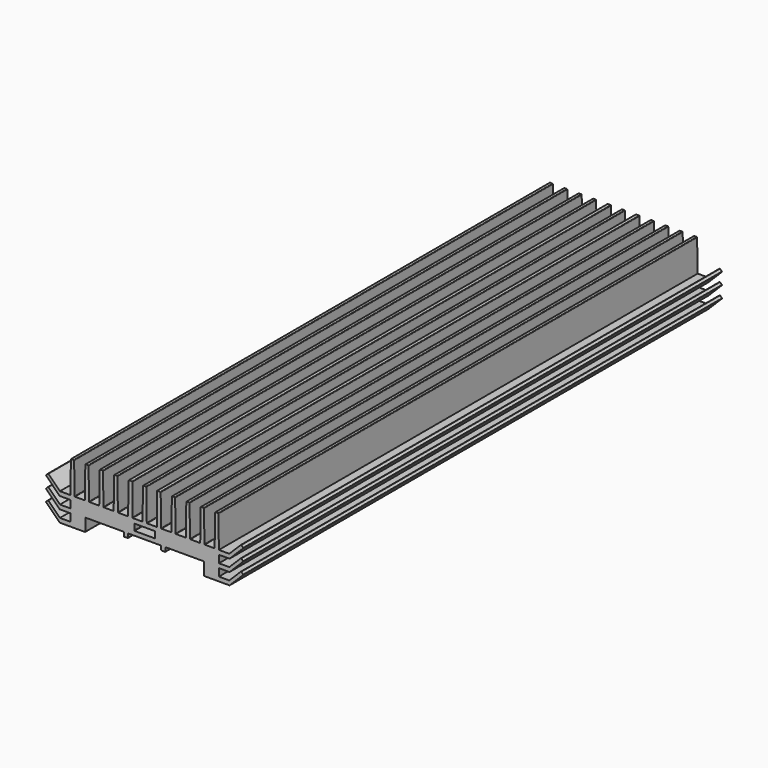
from build123d import *

# Parameters (mm, degrees)
F1_DEPTH = 280
F3_DEPTH = 280


with BuildPart() as f1:
    # F0 (on Front) → F1 (new body)
    with BuildSketch(Plane.XZ):
        with BuildLine():
            ThreePointArc((-9.95, -3.5), (-9.808579, -3.558579), (-9.75, -3.7))
            Line((-9.75, -3.7), (-9.75, -5.3))
            ThreePointArc((-9.75, -5.3), (-9.691421, -5.441421), (-9.55, -5.5))
            Line((-9.55, -5.5), (-7.95, -5.5))
            ThreePointArc((-7.95, -5.5), (-7.808579, -5.441421), (-7.75, -5.3))
            Line((-7.75, -5.3), (-7.75, -3.702103))
            ThreePointArc((-7.75, -3.702103), (-7.691421, -3.560682), (-7.55, -3.502103))
            Line((-7.55, -3.502103), (0, -3.502103))
            Line((0, -3.502103), (0, -1.502103))
            Line((0, -1.502103), (-4.654982, -1.502103))
            ThreePointArc((-4.654982, -1.502103), (-4.796403, -1.443525), (-4.854982, -1.302103))
            Line((-4.854982, -1.302103), (-4.854982, 1.297897))
            ThreePointArc((-4.854982, 1.297897), (-4.796403, 1.439318), (-4.654982, 1.497897))
            Line((-4.654982, 1.497897), (0, 1.497897))
            Line((0, 1.497897), (0, 18.497629))
            Line((0, 18.497629), (-0.55284, 18.497629))
            ThreePointArc((-0.55284, 18.497629), (-0.693076, 18.440226), (-0.752812, 18.300968))
            Line((-0.752812, 18.300968), (-0.996713, 3.694558))
            ThreePointArc((-0.996713, 3.694558), (-1.056449, 3.5553), (-1.196685, 3.497897))
            Line((-1.196685, 3.497897), (-5.550001, 3.497897))
            ThreePointArc((-5.550001, 3.497897), (-5.691423, 3.556475), (-5.750001, 3.697897))
            Line((-5.750001, 3.697897), (-5.750001, 18.3))
            ThreePointArc((-5.750001, 18.3), (-5.80858, 18.441421), (-5.950001, 18.5))
            Line((-5.950001, 18.5), (-7.302839, 18.5))
            ThreePointArc((-7.302839, 18.5), (-7.443074, 18.442597), (-7.502811, 18.303339))
            Line((-7.502811, 18.303339), (-7.746716, 3.696661))
            ThreePointArc((-7.746716, 3.696661), (-7.806452, 3.557403), (-7.946688, 3.5))
            Line((-7.946688, 3.5), (-12.303299, 3.5))
            ThreePointArc((-12.303299, 3.5), (-12.44354, 3.557407), (-12.503272, 3.696673))
            Line((-12.503272, 3.696673), (-12.746255, 18.303327))
            ThreePointArc((-12.746255, 18.303327), (-12.805987, 18.442593), (-12.946228, 18.5))
            Line((-12.946228, 18.5), (-14.052839, 18.5))
            ThreePointArc((-14.052839, 18.5), (-14.193074, 18.442597), (-14.252811, 18.303339))
            Line((-14.252811, 18.303339), (-14.496716, 3.696661))
            ThreePointArc((-14.496716, 3.696661), (-14.556452, 3.557403), (-14.696688, 3.5))
            Line((-14.696688, 3.5), (-19.053299, 3.5))
            ThreePointArc((-19.053299, 3.5), (-19.19354, 3.557407), (-19.253272, 3.696673))
            Line((-19.253272, 3.696673), (-19.496255, 18.303327))
            ThreePointArc((-19.496255, 18.303327), (-19.555987, 18.442593), (-19.696228, 18.5))
            Line((-19.696228, 18.5), (-20.802839, 18.5))
            ThreePointArc((-20.802839, 18.5), (-20.943074, 18.442597), (-21.002811, 18.303339))
            Line((-21.002811, 18.303339), (-21.246716, 3.696661))
            ThreePointArc((-21.246716, 3.696661), (-21.306452, 3.557403), (-21.446688, 3.5))
            Line((-21.446688, 3.5), (-25.803299, 3.5))
            ThreePointArc((-25.803299, 3.5), (-25.94354, 3.557407), (-26.003272, 3.696673))
            Line((-26.003272, 3.696673), (-26.246255, 18.303327))
            ThreePointArc((-26.246255, 18.303327), (-26.305987, 18.442593), (-26.446228, 18.5))
            Line((-26.446228, 18.5), (-27.552839, 18.5))
            ThreePointArc((-27.552839, 18.5), (-27.693074, 18.442597), (-27.752811, 18.303339))
            Line((-27.752811, 18.303339), (-27.996716, 3.696661))
            ThreePointArc((-27.996716, 3.696661), (-28.056452, 3.557403), (-28.196688, 3.5))
            Line((-28.196688, 3.5), (-32.553299, 3.5))
            ThreePointArc((-32.553299, 3.5), (-32.69354, 3.557407), (-32.753272, 3.696673))
            Line((-32.753272, 3.696673), (-32.996255, 18.303327))
            ThreePointArc((-32.996255, 18.303327), (-33.055987, 18.442593), (-33.196228, 18.5))
            Line((-33.196228, 18.5), (-34.302839, 18.5))
            ThreePointArc((-34.302839, 18.5), (-34.443074, 18.442597), (-34.502811, 18.303339))
            Line((-34.502811, 18.303339), (-34.746716, 3.696661))
            Line((-34.746716, 3.696661), (-34.746716, -9.5))
            Line((-34.746716, -9.5), (-27.946716, -9.5))
            ThreePointArc((-27.946716, -9.5), (-27.805295, -9.441421), (-27.746716, -9.3))
            Line((-27.746716, -9.3), (-27.746716, -3.7))
            ThreePointArc((-27.746716, -3.7), (-27.688137, -3.558579), (-27.546716, -3.5))
            Line((-27.546716, -3.5), (-9.95, -3.5))
        make_face()
    extrude(amount=F1_DEPTH)

    # F2 (on face) → F3 (join)
    with BuildSketch(Plane.XZ.offset(280)):
        with BuildLine():
            Line((-34.746716, -9.5), (-34.746716, -7.503925))
            Line((-34.746716, -7.503925), (-39.538628, -7.503925))
            ThreePointArc((-39.538628, -7.503925), (-39.615164, -7.488701), (-39.680049, -7.445347))
            Line((-39.680049, -7.445347), (-44.99641, -2.128986))
            ThreePointArc((-44.99641, -2.128986), (-45.137831, -2.070407), (-45.279253, -2.128986))
            Line((-45.279253, -2.128986), (-46.05707, -2.906803))
            ThreePointArc((-46.05707, -2.906803), (-46.115649, -3.048225), (-46.05707, -3.189646))
            Line((-46.05707, -3.189646), (-39.805295, -9.441421))
            ThreePointArc((-39.805295, -9.441421), (-39.74041, -9.484776), (-39.663873, -9.5))
            Line((-39.663873, -9.5), (-34.746716, -9.5))
        make_face()
        with BuildLine():
            Line((-34.746716, -4), (-34.746716, -2.003925))
            Line((-34.746716, -2.003925), (-39.538628, -2.003925))
            ThreePointArc((-39.538628, -2.003925), (-39.615164, -1.988701), (-39.680049, -1.945347))
            Line((-39.680049, -1.945347), (-44.99641, 3.371014))
            ThreePointArc((-44.99641, 3.371014), (-45.137831, 3.429593), (-45.279253, 3.371014))
            Line((-45.279253, 3.371014), (-46.05707, 2.593197))
            ThreePointArc((-46.05707, 2.593197), (-46.115649, 2.451775), (-46.05707, 2.310354))
            Line((-46.05707, 2.310354), (-39.805295, -3.941421))
            ThreePointArc((-39.805295, -3.941421), (-39.74041, -3.984776), (-39.663873, -4))
            Line((-39.663873, -4), (-34.746716, -4))
        make_face()
        with BuildLine():
            Line((-34.746716, 1.5), (-34.746716, 3.496075))
            Line((-34.746716, 3.496075), (-39.538628, 3.496075))
            ThreePointArc((-39.538628, 3.496075), (-39.615164, 3.511299), (-39.680049, 3.554653))
            Line((-39.680049, 3.554653), (-44.99641, 8.871014))
            ThreePointArc((-44.99641, 8.871014), (-45.137831, 8.929593), (-45.279253, 8.871014))
            Line((-45.279253, 8.871014), (-46.05707, 8.093197))
            ThreePointArc((-46.05707, 8.093197), (-46.115649, 7.951775), (-46.05707, 7.810354))
            Line((-46.05707, 7.810354), (-39.805295, 1.558579))
            ThreePointArc((-39.805295, 1.558579), (-39.74041, 1.515224), (-39.663873, 1.5))
            Line((-39.663873, 1.5), (-34.746716, 1.5))
        make_face()
    extrude(amount=-F3_DEPTH)

    # F4: F1 across face


with BuildPart() as f1_1:
    add(f1.part)
    add(f1.part.mirror(Plane(origin=(0, -140, 9.997763), x_dir=(0, 1, 0), z_dir=(1, 0, 0))))


solid = f1_1.part
